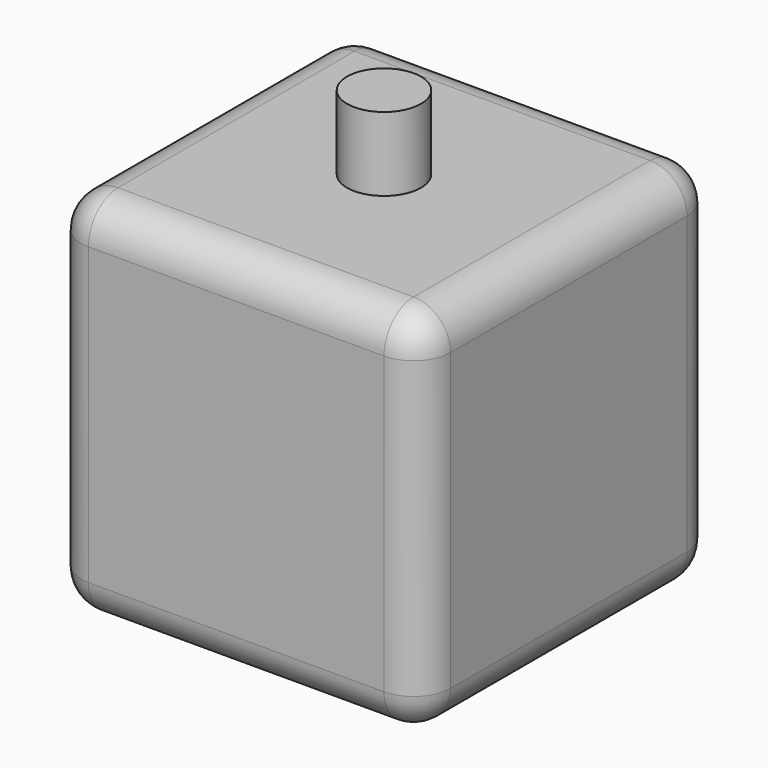
from build123d import *

# Parameters (mm, degrees)
F0_W     = 100
F0_H     = 100
F1_DEPTH = 100
F2_R     = 10
F3_DEPTH = 20
F4_R     = 10


with BuildPart() as f1:
    # F0 (on Top) → F1 (new body)
    with BuildSketch(Plane.XY):
        with Locations((50, 50)):
            Rectangle(F0_W, F0_H)
    extrude(amount=-F1_DEPTH)

    # F2 (on face) → F3 (join)
    with BuildSketch(Plane.XY):
        with Locations((50, 50)):
            Circle(F2_R)
    extrude(amount=F3_DEPTH)

    # F4
    f4_edges = [f1.edges().sort_by_distance(p)[0] for p in [
        (0, 0, -50),
        (100, 0, -50),
        (50, 0, 0),
        (50, 0, -100),
        (100, 50, 0),
        (100, 100, -50),
        (50, 100, 0),
        (0, 50, 0),
        (50, 100, -100),
        (0, 100, -50),
        (0, 50, -100),
        (100, 50, -100),
    ]]
    fillet(f4_edges, radius=F4_R)


solid = f1.part
